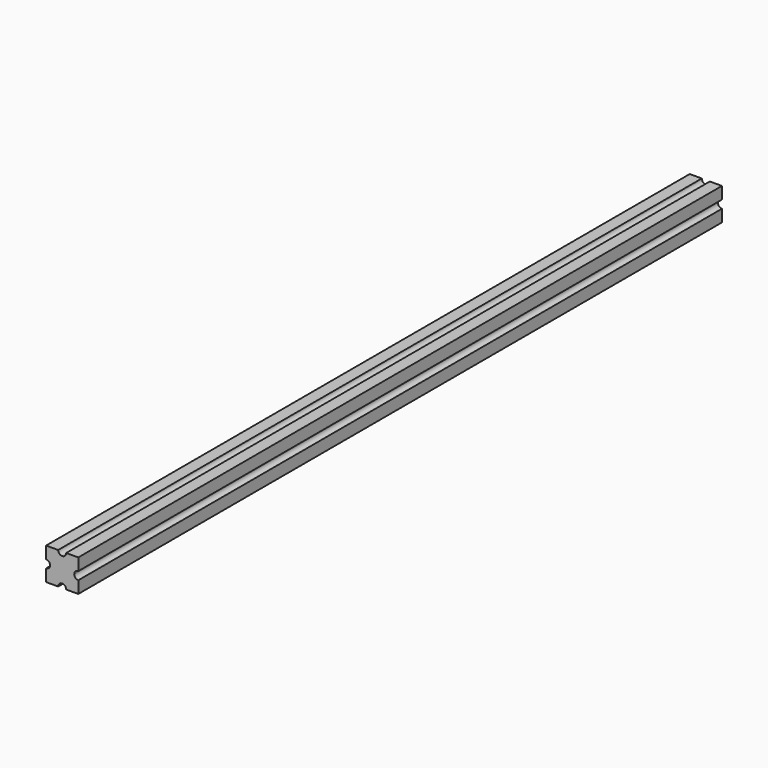
from build123d import *

# Parameters (mm, degrees)
F1_DEPTH = 2540


with BuildPart() as f1:
    # F0 (on Front) → F1 (new body)
    with BuildSketch(Plane.XZ):
        with BuildLine():
            Line((-50.8, -81.608513), (-50.8, -119.708513))
            Line((-50.8, -119.708513), (-12.7, -119.708513))
            ThreePointArc((-12.7, -119.708513), (-8.980256, -110.728257), (0, -107.008513))
            Line((0, -107.008513), (0, -68.908513))
            Line((0, -68.908513), (-38.1, -68.908513))
            ThreePointArc((-38.1, -68.908513), (-41.819744, -77.888769), (-50.8, -81.608513))
        make_face()
        with BuildLine():
            Line((0, -68.908513), (0, -107.008513))
            ThreePointArc((0, -107.008513), (8.980256, -110.728257), (12.7, -119.708513))
            Line((12.7, -119.708513), (50.8, -119.708513))
            Line((50.8, -119.708513), (50.8, -81.608513))
            ThreePointArc((50.8, -81.608513), (41.819744, -77.888769), (38.1, -68.908513))
            Line((38.1, -68.908513), (0, -68.908513))
        make_face()
        with BuildLine():
            ThreePointArc((-50.8, -56.208513), (-41.819744, -59.928257), (-38.1, -68.908513))
            Line((-38.1, -68.908513), (0, -68.908513))
            Line((0, -68.908513), (0, -30.808513))
            ThreePointArc((0, -30.808513), (-8.980256, -27.088769), (-12.7, -18.108513))
            Line((-12.7, -18.108513), (-50.8, -18.108513))
            Line((-50.8, -18.108513), (-50.8, -56.208513))
        make_face()
        with BuildLine():
            Line((0, -30.808513), (0, -68.908513))
            Line((0, -68.908513), (38.1, -68.908513))
            ThreePointArc((38.1, -68.908513), (41.819744, -59.928257), (50.8, -56.208513))
            Line((50.8, -56.208513), (50.8, -18.108513))
            Line((50.8, -18.108513), (12.7, -18.108513))
            ThreePointArc((12.7, -18.108513), (8.980256, -27.088769), (0, -30.808513))
        make_face()
    extrude(amount=F1_DEPTH)


solid = f1.part
